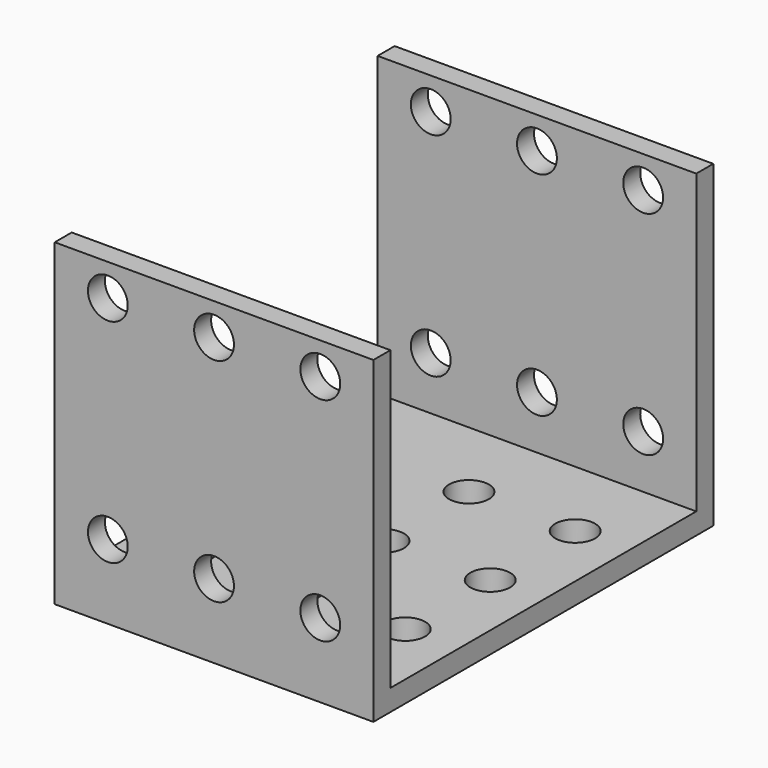
from build123d import *

# Parameters (mm, degrees)
F0_W     = 38.1
F0_H     = 45.72
F0_R     = 2.38125
F1_DEPTH = 2.54
F0_H_2   = 2.54
F2_DEPTH = 38.1
F3_R     = 2.38125
F4_DEPTH = 50.801


with BuildPart() as f1:
    # F0 (on Top) → F1 (new body)
    with BuildSketch(Plane.XY):
        Rectangle(F0_W, F0_H)
        with Locations((-12.7, -12.7)):
            Circle(F0_R, mode=Mode.SUBTRACT)
        with Locations((-12.7, 0)):
            Circle(F0_R, mode=Mode.SUBTRACT)
        with Locations((0, -12.7)):
            Circle(F0_R, mode=Mode.SUBTRACT)
        with Locations((12.7, -12.7)):
            Circle(F0_R, mode=Mode.SUBTRACT)
        Circle(F0_R, mode=Mode.SUBTRACT)
        with Locations((12.7, 0)):
            Circle(F0_R, mode=Mode.SUBTRACT)
        with Locations((-12.7, 12.7)):
            Circle(F0_R, mode=Mode.SUBTRACT)
        with Locations((0, 12.7)):
            Circle(F0_R, mode=Mode.SUBTRACT)
        with Locations((12.7, 12.7)):
            Circle(F0_R, mode=Mode.SUBTRACT)
    extrude(amount=F1_DEPTH)

    # F0 (on Top) → F2 (join)
    with BuildSketch(Plane.XY):
        with Locations((0, 24.13)):
            Rectangle(F0_W, F0_H_2)
        with Locations((0, -24.13)):
            Rectangle(F0_W, F0_H_2)
    extrude(amount=F2_DEPTH)

    # F3 (on face) → F4 (cut, through all)
    with BuildSketch(Plane(origin=(0, 25.4, 0), x_dir=(-1, 0, 0), z_dir=(0, 1, 0))):
        with Locations((-12.7, 34.29)):
            Circle(F3_R)
        with Locations((0, 34.29)):
            Circle(F3_R)
        with Locations((12.7, 34.29)):
            Circle(F3_R)
        with Locations((12.7, 8.89)):
            Circle(F3_R)
        with Locations((0, 8.89)):
            Circle(F3_R)
        with Locations((-12.7, 8.89)):
            Circle(F3_R)
    extrude(amount=-F4_DEPTH, mode=Mode.SUBTRACT)


solid = f1.part
